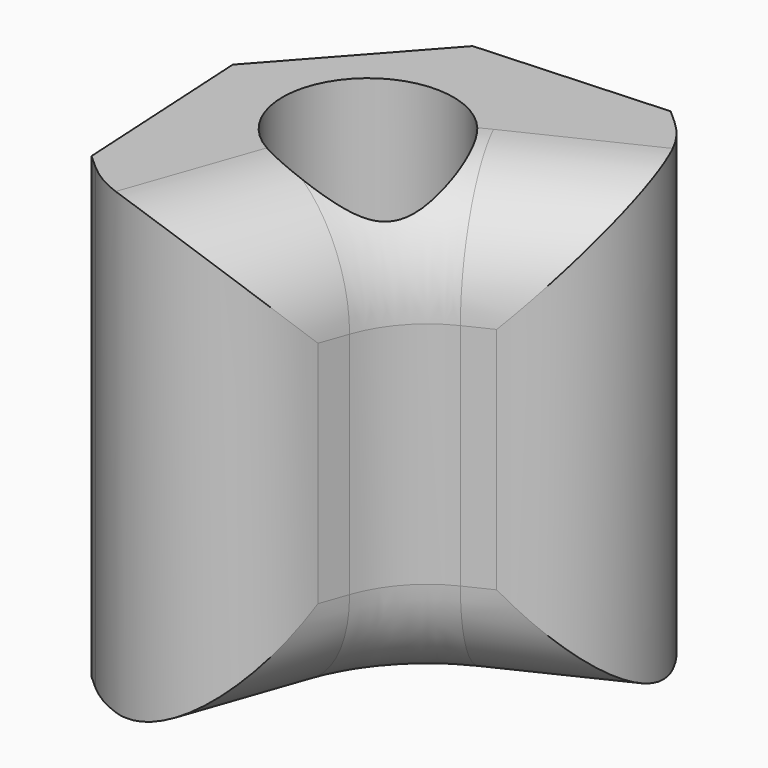
from build123d import *

# Parameters (mm, degrees)
F1_DEPTH = 20
F2_R     = 5
F4_DEPTH = 18


with BuildPart() as f1:
    # F0 (on Top) → F1 (new body)
    with BuildSketch(Plane.XY):
        Polygon((3.5849593993, 10.2129992476), (-4.6867319226, 9.7566301257), (-10.2129992476, 3.5849593993), (-9.7566301257, -4.6867319226), (-3.5849593993, -10.2129992476), (0, 0), (9.7566301257, 4.6867319226), align=None)
    extrude(amount=-F1_DEPTH)

    # F2
    f2_edges = [f1.edges().sort_by_distance(p)[0] for p in [
        (-3.584959, -10.212999, -10),
        (0, 0, -10),
        (-1.79248, -5.1065, 0),
        (-1.79248, -5.1065, -20),
        (9.75663, 4.686732, -10),
        (4.878315, 2.343366, 0),
        (4.878315, 2.343366, -20),
    ]]
    fillet(f2_edges, radius=F2_R)

    # F3 (on face) → F4 (cut)
    with BuildSketch(Plane.XY):
        with BuildLine():
            ThreePointArc((-5.4696709775, -0.4859568461), (-1.774196959, -0.43586708), (0.0592308539, 2.7731171302))
            ThreePointArc((0.0592308539, 2.7731171302), (-0.1609705435, 4.0348666123), (-0.7955405584, 5.1474407928))
            ThreePointArc((-0.7955405584, 5.1474407928), (-3.6017445612, 2.8495453067), (-5.4037427691, -0.2981374964))
            Line((-5.4037427691, -0.2981374964), (-5.4696709775, -0.4859568461))
        make_face()
        with BuildLine():
            ThreePointArc((-5.4037427691, -0.2981374964), (-3.6017445612, 2.8495453067), (-0.7955405584, 5.1474407928))
            ThreePointArc((-0.7955405584, 5.1474407928), (-6.5324842395, 5.1516817337), (-5.4696709775, -0.4859568461))
            Line((-5.4696709775, -0.4859568461), (-5.4037427691, -0.2981374964))
        make_face()
    extrude(amount=-F4_DEPTH, mode=Mode.SUBTRACT)


solid = f1.part
